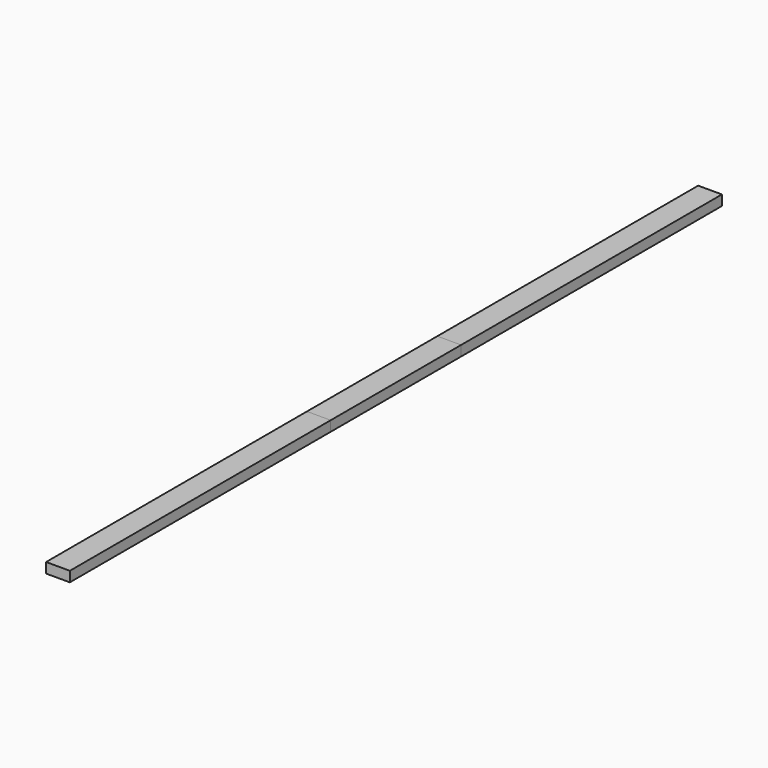
from build123d import *

# Parameters (mm, degrees)
F0_W     = 88.9
F0_H     = 38.1
F1_DEPTH = 2438.4
F2_DEPTH = 3048
F3_DEPTH = 1828.8
F4_DEPTH = 1219.2


with BuildPart() as f1:
    # F0 (on Front) → F1 (new body)
    with BuildSketch(Plane.XZ):
        Rectangle(F0_W, F0_H)
    extrude(amount=F1_DEPTH)


with BuildPart() as f2:
    # F0 (on Front) → F2 (new body)
    with BuildSketch(Plane.XZ):
        Rectangle(F0_W, F0_H)
    extrude(amount=F2_DEPTH)


with BuildPart() as f3:
    # F0 (on Front) → F3 (new body)
    with BuildSketch(Plane.XZ):
        Rectangle(F0_W, F0_H)
    extrude(amount=F3_DEPTH)


with BuildPart() as f4:
    # F0 (on Front) → F4 (new body)
    with BuildSketch(Plane.XZ):
        Rectangle(F0_W, F0_H)
    extrude(amount=F4_DEPTH)


solid = Compound([f1.part, f2.part, f3.part, f4.part])
